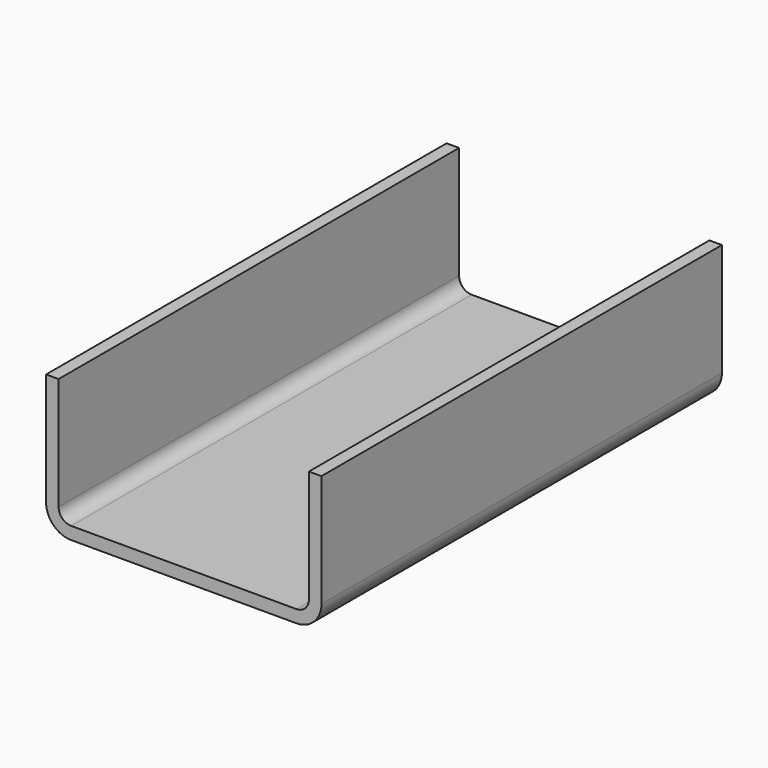
from build123d import *

# Parameters (mm, degrees)
F1_DEPTH = 200
F2_R     = 5
F3_R     = 10


with BuildPart() as f1:
    # F0 (on Front) → F1 (new body)
    with BuildSketch(Plane.XZ):
        Polygon((100, 0), (0, 0), (0, 50), (-5, 50), (-5, -5), (105, -5), (105, 50), (100, 50), align=None)
    extrude(amount=-F1_DEPTH)

    # F2
    f2_edges = [f1.edges().sort_by_distance(p)[0] for p in [
        (0, 100, 0),
        (100, 100, 0),
    ]]
    fillet(f2_edges, radius=F2_R)

    # F3
    f3_edges = [f1.edges().sort_by_distance(p)[0] for p in [
        (105, 100, -5),
        (-5, 100, -5),
    ]]
    fillet(f3_edges, radius=F3_R)


solid = f1.part
